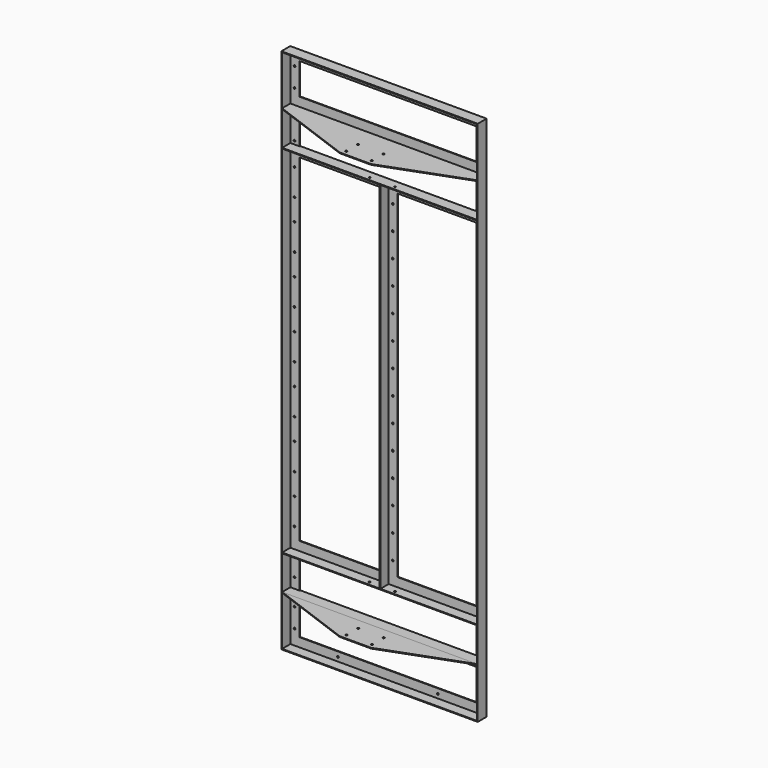
from build123d import *

# Parameters (mm, degrees)
F0_W      = 400
F0_H      = 1472
F0_R      = 3.75
F0_R_2    = 3.5
F0_W_2    = 326
F0_H_2    = 1398
F1_DEPTH  = 3
F0_W_3    = 37
F0_H_3    = 141
F0_W_4    = 807
F0_H_4    = 204
F0_W_5    = 733
F0_H_5    = 130
F0_W_6    = 813
F0_H_6    = 2180
F0_W_7    = 3
F0_H_7    = 3
F2_DEPTH  = 46
F3_R      = 4
F4_DEPTH  = 3
F5_R      = 4
F6_DEPTH  = 3
F7_R      = 3.25
F8_DEPTH  = 4
F9_R      = 3.25
F10_DEPTH = 3
F12_R     = 3.5
F13_DEPTH = 3
F11_R     = 3.5
F14_DEPTH = 3


with BuildPart() as f1:
    # F0 (on Front) → F1 (new body)
    with BuildSketch(Plane.XZ):
        with Locations((203.5, 0)):
            Rectangle(F0_W, F0_H)
        with Locations((20.5, -644.75)):
            Circle(F0_R, mode=Mode.SUBTRACT)
        with Locations((386.5, -653)):
            Circle(F0_R_2, mode=Mode.SUBTRACT)
        with Locations((20.5, -544.75)):
            Circle(F0_R, mode=Mode.SUBTRACT)
        with Locations((20.5, -444.75)):
            Circle(F0_R, mode=Mode.SUBTRACT)
        with Locations((20.5, -344.75)):
            Circle(F0_R, mode=Mode.SUBTRACT)
        with Locations((20.5, -244.75)):
            Circle(F0_R, mode=Mode.SUBTRACT)
        with Locations((20.5, -144.75)):
            Circle(F0_R, mode=Mode.SUBTRACT)
        with Locations((20.5, -44.75)):
            Circle(F0_R, mode=Mode.SUBTRACT)
        with Locations((386.5, -543)):
            Circle(F0_R_2, mode=Mode.SUBTRACT)
        with Locations((386.5, -453)):
            Circle(F0_R_2, mode=Mode.SUBTRACT)
        with Locations((386.5, -343)):
            Circle(F0_R_2, mode=Mode.SUBTRACT)
        with Locations((386.5, -253)):
            Circle(F0_R_2, mode=Mode.SUBTRACT)
        with Locations((386.5, -143)):
            Circle(F0_R_2, mode=Mode.SUBTRACT)
        with Locations((386.5, -53)):
            Circle(F0_R_2, mode=Mode.SUBTRACT)
        with Locations((20.5, 55.25)):
            Circle(F0_R, mode=Mode.SUBTRACT)
        with Locations((20.5, 155.25)):
            Circle(F0_R, mode=Mode.SUBTRACT)
        with Locations((20.5, 255.25)):
            Circle(F0_R, mode=Mode.SUBTRACT)
        with Locations((20.5, 355.25)):
            Circle(F0_R, mode=Mode.SUBTRACT)
        with Locations((20.5, 455.25)):
            Circle(F0_R, mode=Mode.SUBTRACT)
        with Locations((203.5, 0)):
            Rectangle(F0_W_2, F0_H_2, mode=Mode.SUBTRACT)
        with Locations((386.5, 57)):
            Circle(F0_R_2, mode=Mode.SUBTRACT)
        with Locations((386.5, 147)):
            Circle(F0_R_2, mode=Mode.SUBTRACT)
        with Locations((386.5, 257)):
            Circle(F0_R_2, mode=Mode.SUBTRACT)
        with Locations((386.5, 347)):
            Circle(F0_R_2, mode=Mode.SUBTRACT)
        with Locations((386.5, 457)):
            Circle(F0_R_2, mode=Mode.SUBTRACT)
        with Locations((20.5, 555.25)):
            Circle(F0_R, mode=Mode.SUBTRACT)
        with Locations((20.5, 655.25)):
            Circle(F0_R, mode=Mode.SUBTRACT)
        with Locations((386.5, 547)):
            Circle(F0_R_2, mode=Mode.SUBTRACT)
        with Locations((386.5, 657)):
            Circle(F0_R_2, mode=Mode.SUBTRACT)
    extrude(amount=F1_DEPTH)


with BuildPart() as f1b:
    # F0 (on Front) → F1, piece 2 (new body)
    with BuildSketch(Plane.XZ):
        with Locations((385, 809.5)):
            Rectangle(F0_W_3, F0_H_3)
        with Locations((386.5, 753)):
            Circle(F0_R_2, mode=Mode.SUBTRACT)
        with Locations((386.5, 838)):
            Circle(F0_R_2, mode=Mode.SUBTRACT)
    extrude(amount=F1_DEPTH)


with BuildPart() as f1c:
    # F0 (on Front) → F1, piece 3 (new body)
    with BuildSketch(Plane.XZ):
        with Locations((-385, 809.5)):
            Rectangle(F0_W_3, F0_H_3)
        with Locations((-386.5, 753)):
            Circle(F0_R_2, mode=Mode.SUBTRACT)
        with Locations((-386.5, 838)):
            Circle(F0_R_2, mode=Mode.SUBTRACT)
    extrude(amount=F1_DEPTH)


with BuildPart() as f1d:
    # F0 (on Front) → F1, piece 4 (new body)
    with BuildSketch(Plane.XZ):
        with Locations((0, 985)):
            Rectangle(F0_W_4, F0_H_4)
        with Locations((-386.5, 945)):
            Circle(F0_R_2, mode=Mode.SUBTRACT)
        with Locations((-386.5, 1025)):
            Circle(F0_R_2, mode=Mode.SUBTRACT)
        with Locations((-206.5, 1066.3022994995)):
            Circle(F0_R_2, mode=Mode.SUBTRACT)
        with Locations((0, 985)):
            Rectangle(F0_W_5, F0_H_5, mode=Mode.SUBTRACT)
        with Locations((206.5, 1066.3022994995)):
            Circle(F0_R_2, mode=Mode.SUBTRACT)
        with Locations((386.5, 945)):
            Circle(F0_R_2, mode=Mode.SUBTRACT)
        with Locations((386.5, 1025)):
            Circle(F0_R_2, mode=Mode.SUBTRACT)
    extrude(amount=F1_DEPTH)


with BuildPart() as f1e:
    # F0 (on Front) → F1, piece 5 (new body)
    with BuildSketch(Plane.XZ):
        with Locations((0, -985)):
            Rectangle(F0_W_4, F0_H_4)
        with Locations((-386.5, -1025)):
            Circle(F0_R_2, mode=Mode.SUBTRACT)
        with Locations((-386.5, -945)):
            Circle(F0_R_2, mode=Mode.SUBTRACT)
        with Locations((-206.5, -1070.0408220291)):
            Circle(F0_R_2, mode=Mode.SUBTRACT)
        with Locations((0, -985)):
            Rectangle(F0_W_5, F0_H_5, mode=Mode.SUBTRACT)
        with Locations((206.5, -1070.0408220291)):
            Circle(F0_R_2, mode=Mode.SUBTRACT)
        with Locations((386.5, -1025)):
            Circle(F0_R_2, mode=Mode.SUBTRACT)
        with Locations((386.5, -945)):
            Circle(F0_R_2, mode=Mode.SUBTRACT)
    extrude(amount=F1_DEPTH)


with BuildPart() as f1f:
    # F0 (on Front) → F1, piece 6 (new body)
    with BuildSketch(Plane.XZ):
        with Locations((-385, -809.5)):
            Rectangle(F0_W_3, F0_H_3)
        with Locations((-386.5, -838)):
            Circle(F0_R_2, mode=Mode.SUBTRACT)
        with Locations((-386.5, -753)):
            Circle(F0_R_2, mode=Mode.SUBTRACT)
    extrude(amount=F1_DEPTH)


with BuildPart() as f1g:
    # F0 (on Front) → F1, piece 7 (new body)
    with BuildSketch(Plane.XZ):
        with Locations((385, -809.5)):
            Rectangle(F0_W_3, F0_H_3)
        with Locations((386.5, -838)):
            Circle(F0_R_2, mode=Mode.SUBTRACT)
        with Locations((386.5, -753)):
            Circle(F0_R_2, mode=Mode.SUBTRACT)
    extrude(amount=F1_DEPTH)


with BuildPart() as f1h:
    # F0 (on Front) → F1, piece 8 (new body)
    with BuildSketch(Plane.XZ):
        Polygon((0.5, 736), (-403.5, 736), (-403.5, -736), (0.5, -736), (0.5, -699), (-366.5, -699), (-366.5, 699), (0.5, 699), align=None)
        with Locations((-386.5, -653)):
            Circle(F0_R_2, mode=Mode.SUBTRACT)
        with Locations((-386.5, -543)):
            Circle(F0_R_2, mode=Mode.SUBTRACT)
        with Locations((-386.5, -453)):
            Circle(F0_R_2, mode=Mode.SUBTRACT)
        with Locations((-386.5, -343)):
            Circle(F0_R_2, mode=Mode.SUBTRACT)
        with Locations((-386.5, -253)):
            Circle(F0_R_2, mode=Mode.SUBTRACT)
        with Locations((-386.5, -143)):
            Circle(F0_R_2, mode=Mode.SUBTRACT)
        with Locations((-386.5, -53)):
            Circle(F0_R_2, mode=Mode.SUBTRACT)
        with Locations((-386.5, 57)):
            Circle(F0_R_2, mode=Mode.SUBTRACT)
        with Locations((-386.5, 147)):
            Circle(F0_R_2, mode=Mode.SUBTRACT)
        with Locations((-386.5, 257)):
            Circle(F0_R_2, mode=Mode.SUBTRACT)
        with Locations((-386.5, 347)):
            Circle(F0_R_2, mode=Mode.SUBTRACT)
        with Locations((-386.5, 457)):
            Circle(F0_R_2, mode=Mode.SUBTRACT)
        with Locations((-386.5, 547)):
            Circle(F0_R_2, mode=Mode.SUBTRACT)
        with Locations((-386.5, 657)):
            Circle(F0_R_2, mode=Mode.SUBTRACT)
    extrude(amount=F1_DEPTH)


with BuildPart() as f2:
    # F0 (on Front) → F2 (new body)
    with BuildSketch(Plane.XZ):
        Rectangle(F0_W_6, F0_H_6)
        Polygon((-403.5, 883), (-403.5, 1087), (403.5, 1087), (403.5, 883), (403.5, 880), (403.5, 739), (403.5, 736), (403.5, -736), (403.5, -739), (403.5, -880), (403.5, -883), (403.5, -1087), (-403.5, -1087), (-403.5, -883), (-403.5, -880), (-403.5, -739), (-403.5, -736), (-403.5, 736), (-403.5, 739), (-403.5, 880), align=None, mode=Mode.SUBTRACT)
        Polygon((3.5, 736), (0.5, 736), (0.5, 699), (0.5, -699), (0.5, -736), (3.5, -736), align=None)
        Polygon((403.5, 883), (-403.5, 883), (-403.5, 880), (-366.5, 880), (366.5, 880), (403.5, 880), align=None)
        Polygon((-366.5, -880), (-403.5, -880), (-403.5, -883), (403.5, -883), (403.5, -880), (366.5, -880), align=None)
        Polygon((-366.5, 739), (-403.5, 739), (-403.5, 736), (0.5, 736), (0.5, 739), align=None)
        Polygon((0.5, -736), (-403.5, -736), (-403.5, -739), (-366.5, -739), (0.5, -739), align=None)
        Polygon((403.5, 736), (403.5, 739), (366.5, 739), (3.5, 739), (3.5, 736), align=None)
        Polygon((403.5, -739), (403.5, -736), (3.5, -736), (3.5, -739), (366.5, -739), align=None)
        with Locations((2, 737.5)):
            Rectangle(F0_W_7, F0_H_7)
        with Locations((2, -737.5)):
            Rectangle(F0_W_7, F0_H_7)
    extrude(amount=F2_DEPTH)

    # F3 (on face) → F4 (join)
    with BuildSketch(Plane(origin=(0, 0, 880), x_dir=(1, 0, 0), z_dir=(0, 0, -1))):
        Polygon((-0.2277191269, 170.9997925758), (-64.9562723728, 170.8818729431), (-403.5, 46), (0, 46), align=None)
        with Locations((-53.3046420099, 90.9029666194)):
            Circle(F3_R, mode=Mode.SUBTRACT)
        with Locations((-53.4139471908, 150.9028670558)):
            Circle(F3_R, mode=Mode.SUBTRACT)
        Polygon((65.0437276272, 171.1187012281), (-0.2277191269, 170.9997925758), (0, 46), (403.5, 46), align=None)
        with Locations((52.4854393104, 91.0956903388)):
            Circle(F3_R, mode=Mode.SUBTRACT)
        with Locations((52.3761341295, 151.0955907752)):
            Circle(F3_R, mode=Mode.SUBTRACT)
    extrude(amount=-F4_DEPTH)

    # F7 (on face) → F8 (cut)
    with BuildSketch(Plane(origin=(0, 0, 736), x_dir=(1, 0, 0), z_dir=(0, 0, -1))):
        with Locations((-52.5, 31)):
            Circle(F7_R)
    extrude(amount=-F8_DEPTH, mode=Mode.SUBTRACT)

    # F9 (on face) → F10 (cut)
    with BuildSketch(Plane(origin=(0, 0, 736), x_dir=(1, 0, 0), z_dir=(0, 0, -1))):
        with Locations((52.5, 31)):
            Circle(F9_R)
    extrude(amount=-F10_DEPTH, mode=Mode.SUBTRACT)

    # F12 (on face) → F13 (cut)
    with BuildSketch(Plane.XY.offset(-736)):
        with Locations((-53.5, -31)):
            Circle(F12_R)
    extrude(amount=-F13_DEPTH, mode=Mode.SUBTRACT)

    # F11 (on face) → F14 (cut)
    with BuildSketch(Plane.XY.offset(-736)):
        with Locations((52.5, -31)):
            Circle(F11_R)
    extrude(amount=-F14_DEPTH, mode=Mode.SUBTRACT)


with BuildPart() as f6:
    # F5 (on face) → F6 (new body)
    with BuildSketch(Plane.XY.offset(-880)):
        Polygon((0, -170.9999996028), (0, -46), (-403.5, -46), (-65, -170.9999996028), align=None)
        with Locations((-52.5, -150.9999996028)):
            Circle(F5_R, mode=Mode.SUBTRACT)
        with Locations((-52.5, -90.9999996028)):
            Circle(F5_R, mode=Mode.SUBTRACT)
        Polygon((65, -170.9999996028), (403.5, -46), (0, -46), (0, -170.9999996028), align=None)
        with Locations((52.5, -150.9999996028)):
            Circle(F5_R, mode=Mode.SUBTRACT)
        with Locations((52.5, -90.9999996028)):
            Circle(F5_R, mode=Mode.SUBTRACT)
    extrude(amount=-F6_DEPTH)


solid = Compound([f1.part, f1b.part, f1c.part, f1d.part, f1e.part, f1f.part, f1g.part, f1h.part, f2.part, f6.part])
